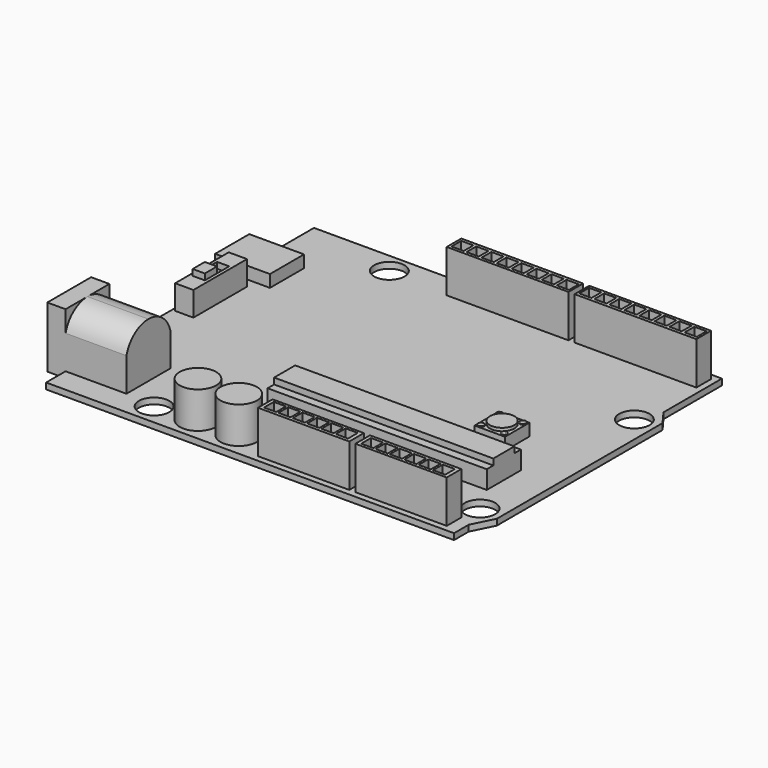
from build123d import *

# Parameters (mm, degrees)
F0_R      = 2.5
F0_R_2    = 3
F0_W      = 15
F0_H      = 3
F0_W_2    = 36
F0_H_2    = 7
F0_W_3    = 5
F0_H_3    = 5
F0_W_4    = 3
F0_H_4    = 11
F0_W_5    = 20
F1_DEPTH  = 1
F0_W_6    = 6
F2_DEPTH  = 3
F3_W      = 6.0919821262
F3_H      = 2.156003291
F3_W_2    = 4.6053659171
F3_H_2    = 0.7004359504
F4_DEPTH  = 5
F5_DEPTH  = 0.01
F6_R      = 0.1764885175
F7_DEPTH  = 1
F8_DEPTH  = 8
F9_W      = 2
F9_H      = 2
F10_DEPTH = 7
F11_DEPTH = 8
F12_W     = 2
F12_H     = 2
F13_DEPTH = 7
F14_DEPTH = 4
F15_W     = 36
F15_H     = 4.3235293124
F16_DEPTH = 1
F17_DEPTH = 7
F18_DEPTH = 5
F19_W     = 2
F19_H     = 5
F20_DEPTH = 1
F21_W     = 2
F21_H     = 2.5
F22_DEPTH = 2
F23_DEPTH = 3
F24_R     = 2
F25_DEPTH = 0.5
F26_R     = 0.5
F27_DEPTH = 0.12
F28_W     = 9
F28_H     = 10
F29_DEPTH = 3
F31_DEPTH = 10
F32_R     = 3.5
F33_DEPTH = 10
F34_R     = 0.5052638742
F35_DEPTH = 8


with BuildPart() as f1:
    # F0 (on Top) → F1 (new body)
    with BuildSketch(Plane.XY):
        with BuildLine():
            Line((29.8080042452, 39.4496775003), (-37.1919957548, 39.4496775003))
            Line((-37.1919957548, 39.4496775003), (-37.1919957548, 29.9080151767))
            Line((-37.1919957548, 29.9080151767), (-31.1919957548, 29.9080151767))
            Line((-31.1919957548, 29.9080151767), (-31.1919957548, 22.9080151767))
            Line((-31.1919957548, 22.9080151767), (-37.1919957548, 22.9080151767))
            Line((-37.1919957548, 22.9080151767), (-37.1919957548, -15.5503224997))
            Line((-37.1919957548, -15.5503224997), (29.8080042452, -15.5503224997))
            Line((29.8080042452, -15.5503224997), (29.8080042452, -12.5503224997))
            Line((29.8080042452, -12.5503224997), (29.8080042452, -9.9711786598))
            ThreePointArc((29.8080042452, -9.9711786598), (25.6350808795, -8.1134038046), (29.8080042452, -6.2556289494))
            Line((29.8080042452, -6.2556289494), (29.8080042452, 21.7037928794))
            ThreePointArc((29.8080042452, 21.7037928794), (25.6350808795, 23.5615677345), (29.8080042452, 25.4193425897))
            Line((29.8080042452, 25.4193425897), (29.8080042452, 27.4496775003))
            Line((29.8080042452, 27.4496775003), (29.8080042452, 39.4496775003))
        make_face()
        with Locations((-22.2124100368, -12.094632404)):
            Circle(F0_R, mode=Mode.SUBTRACT)
        with Locations((-15.4500696808, -11.547928676)):
            Circle(F0_R_2, mode=Mode.SUBTRACT)
        with Locations((-8.7503036484, -11.547928676)):
            Circle(F0_R_2, mode=Mode.SUBTRACT)
        with Locations((4.3080042452, -13.0503224997)):
            Rectangle(F0_W, F0_H, mode=Mode.SUBTRACT)
        with Locations((20.3080042452, -13.0503224997)):
            Rectangle(F0_W, F0_H, mode=Mode.SUBTRACT)
        with Locations((7.5855649958, -0.0503224997)):
            Rectangle(F0_W_2, F0_H_2, mode=Mode.SUBTRACT)
        with Locations((18.0855649958, 8.9496775003)):
            Rectangle(F0_W_3, F0_H_3, mode=Mode.SUBTRACT)
        with Locations((-35.1919957548, 15.817706503)):
            Rectangle(F0_W_4, F0_H_4, mode=Mode.SUBTRACT)
        with Locations((-22.1919957548, 36.1676290631)):
            Circle(F0_R, mode=Mode.SUBTRACT)
        with Locations((-2.1919957548, 36.9496775003)):
            Rectangle(F0_W_5, F0_H, mode=Mode.SUBTRACT)
        with Locations((18.8080042452, 36.9496775003)):
            Rectangle(F0_W_5, F0_H, mode=Mode.SUBTRACT)
        with BuildLine():
            Line((31.5855649958, 25.0330108336), (29.8080042452, 27.4496775003))
            Line((29.8080042452, 27.4496775003), (29.8080042452, 25.4193425897))
            ThreePointArc((29.8080042452, 25.4193425897), (30.4189710273, 24.5783498119), (30.6350808795, 23.5615677345))
            ThreePointArc((30.6350808795, 23.5615677345), (30.4189710273, 22.5447856572), (29.8080042452, 21.7037928794))
            Line((29.8080042452, 21.7037928794), (29.8080042452, -6.2556289494))
            ThreePointArc((29.8080042452, -6.2556289494), (30.4189710273, -7.0966217272), (30.6350808795, -8.1134038046))
            ThreePointArc((30.6350808795, -8.1134038046), (30.4189710273, -9.130185882), (29.8080042452, -9.9711786598))
            Line((29.8080042452, -9.9711786598), (29.8080042452, -12.5503224997))
            Line((29.8080042452, -12.5503224997), (31.5855649958, -8.9669891664))
            Line((31.5855649958, -8.9669891664), (31.5855649958, 25.0330108336))
        make_face()
    extrude(amount=F1_DEPTH)

    # F0 (on Top) → F2 (join)
    with BuildSketch(Plane.XY):
        with Locations((-34.1919957548, 26.4080151767)):
            Rectangle(F0_W_6, F0_H_2)
        with Locations((-38.6919957548, 26.4080151767)):
            Rectangle(F0_W_4, F0_H_2)
    extrude(amount=F2_DEPTH)

    # F3 (on face) → F4 (cut)
    with BuildSketch(Plane(origin=(-40.1919957548, 0, 0), x_dir=(0, -1, 0), z_dir=(-1, 0, 0))):
        with Locations((-26.4367051423, 1.5037092817)):
            Rectangle(F3_W, F3_H)
        with Locations((-26.4919223264, 1.1216333951)):
            Rectangle(F3_W_2, F3_H_2, mode=Mode.SUBTRACT)
    extrude(amount=-F4_DEPTH, mode=Mode.SUBTRACT)

    # F5 (add): a face of the model
    f5_faces = [f1.faces().sort_by_distance(p)[0] for p in [
        (-40.1919957548, 26.4919223264, 1.1216333951),
    ]]
    extrude(f5_faces, amount=F5_DEPTH)

    # F6 (on face) → F7 (cut)
    with BuildSketch(Plane(origin=(-40.2019957548, 0, 0), x_dir=(0, -1, 0), z_dir=(-1, 0, 0))):
        with Locations((-28.4428689629, 1.1273990385)):
            Circle(F6_R)
        with Locations((-27.773834765, 1.1273990385)):
            Circle(F6_R)
        with Locations((-27.0392056555, 1.1405174155)):
            Circle(F6_R)
        with Locations((-26.2389853597, 1.1273990385)):
            Circle(F6_R)
        with Locations((-25.4518836737, 1.1273990385)):
            Circle(F6_R)
        with Locations((-24.599192664, 1.1273990385)):
            Circle(F6_R)
    extrude(amount=-F7_DEPTH, mode=Mode.SUBTRACT)

    # F0 (on Top) → F8 (join)
    with BuildSketch(Plane.XY):
        with Locations((4.3080042452, -13.0503224997)):
            Rectangle(F0_W, F0_H)
        with Locations((20.3080042452, -13.0503224997)):
            Rectangle(F0_W, F0_H)
    extrude(amount=F8_DEPTH)

    # F9 (on face) → F10 (cut)
    with BuildSketch(Plane.XY.offset(8)):
        with Locations((-1.6276776972, -13.0106943408)):
            Rectangle(F9_W, F9_H)
        with Locations((0.7316023028, -13.0106943408)):
            Rectangle(F9_W, F9_H)
        with Locations((3.0908823028, -13.0106943408)):
            Rectangle(F9_W, F9_H)
        with Locations((5.4501623028, -13.0106943408)):
            Rectangle(F9_W, F9_H)
        with Locations((7.8094423028, -13.0106943408)):
            Rectangle(F9_W, F9_H)
        with Locations((10.1687223028, -13.0106943408)):
            Rectangle(F9_W, F9_H)
        with Locations((14.3679531808, -13.0613135853)):
            Rectangle(F9_W, F9_H)
        with Locations((16.7272331808, -13.0613135853)):
            Rectangle(F9_W, F9_H)
        with Locations((19.0865131808, -13.0613135853)):
            Rectangle(F9_W, F9_H)
        with Locations((21.4457931808, -13.0613135853)):
            Rectangle(F9_W, F9_H)
        with Locations((23.8050731808, -13.0613135853)):
            Rectangle(F9_W, F9_H)
        with Locations((26.1643531808, -13.0613135853)):
            Rectangle(F9_W, F9_H)
    extrude(amount=-F10_DEPTH, mode=Mode.SUBTRACT)

    # F0 (on Top) → F11 (join)
    with BuildSketch(Plane.XY):
        with Locations((-2.1919957548, 36.9496775003)):
            Rectangle(F0_W_5, F0_H)
        with Locations((18.8080042452, 36.9496775003)):
            Rectangle(F0_W_5, F0_H)
    extrude(amount=F11_DEPTH)

    # F12 (on face) → F13 (cut)
    with BuildSketch(Plane.XY.offset(8)):
        with Locations((-10.7926787348, 36.9306445411)):
            Rectangle(F12_W, F12_H)
        with Locations((-8.3211087348, 36.9306445411)):
            Rectangle(F12_W, F12_H)
        with Locations((-5.8495387348, 36.9306445411)):
            Rectangle(F12_W, F12_H)
        with Locations((-3.3779687348, 36.9306445411)):
            Rectangle(F12_W, F12_H)
        with Locations((6.5083112652, 36.9306445411)):
            Rectangle(F12_W, F12_H)
        with Locations((4.0367412652, 36.9306445411)):
            Rectangle(F12_W, F12_H)
        with Locations((1.5651712652, 36.9306445411)):
            Rectangle(F12_W, F12_H)
        with Locations((-0.9063987348, 36.9306445411)):
            Rectangle(F12_W, F12_H)
        with Locations((10.1558505086, 36.9821168771)):
            Rectangle(F12_W, F12_H)
        with Locations((12.6274205086, 36.9821168771)):
            Rectangle(F12_W, F12_H)
        with Locations((15.0989905086, 36.9821168771)):
            Rectangle(F12_W, F12_H)
        with Locations((17.5705605086, 36.9821168771)):
            Rectangle(F12_W, F12_H)
        with Locations((20.0421305086, 36.9821168771)):
            Rectangle(F12_W, F12_H)
        with Locations((22.5137005086, 36.9821168771)):
            Rectangle(F12_W, F12_H)
        with Locations((24.9852705086, 36.9821168771)):
            Rectangle(F12_W, F12_H)
        with Locations((27.4568405086, 36.9821168771)):
            Rectangle(F12_W, F12_H)
    extrude(amount=-F13_DEPTH, mode=Mode.SUBTRACT)

    # F0 (on Top) → F14 (join)
    with BuildSketch(Plane.XY):
        with Locations((7.5855649958, -0.0503224997)):
            Rectangle(F0_W_2, F0_H_2)
    extrude(amount=F14_DEPTH)

    # F15 (on face) → F16 (join)
    with BuildSketch(Plane.XY.offset(4)):
        with Locations((7.5855649958, -0.042969943)):
            Rectangle(F15_W, F15_H)
    extrude(amount=F16_DEPTH)

    # F28 (on face) → F29 (join)
    with BuildSketch(Plane(origin=(-37.1919957548, 0, 0), x_dir=(0, -1, 0), z_dir=(-1, 0, 0))):
        with Locations((7.0503224997, 4.9689507103)):
            Rectangle(F28_W, F28_H)
    extrude(amount=F29_DEPTH)

    # F30 (on face) → F31 (join)
    with BuildSketch(Plane.YZ.offset(-37.1919957548)):
        with BuildLine():
            ThreePointArc((-2.5503224997, 6.5089249854), (-4.2121110023, 9.0039471133), (-7.0503224997, 9.9689507103))
            ThreePointArc((-7.0503224997, 9.9689507103), (-9.8885339972, 9.0039471133), (-11.5503224997, 6.5089249854))
            Line((-11.5503224997, 6.5089249854), (-11.5503224997, 0))
            Line((-11.5503224997, 0), (-2.5503224997, 0))
            Line((-2.5503224997, 0), (-2.5503224997, 6.5089249854))
        make_face()
    extrude(amount=F31_DEPTH)

    # F32 (on face) → F33 (cut)
    with BuildSketch(Plane(origin=(-40.1919957548, 0, 0), x_dir=(0, -1, 0), z_dir=(-1, 0, 0))):
        with Locations((7.0503224997, 5.5)):
            Circle(F32_R)
    extrude(amount=-F33_DEPTH, mode=Mode.SUBTRACT)

    # F34 (on face) → F35 (join)
    with BuildSketch(Plane(origin=(-30.1919957548, 0, 0), x_dir=(0, -1, 0), z_dir=(-1, 0, 0))):
        with Locations((7.0503224997, 5.5)):
            Circle(F34_R)
    extrude(amount=F35_DEPTH)


with BuildPart() as f17:
    # F0 (on Top) → F17 (new body)
    with BuildSketch(Plane.XY):
        with Locations((-15.4500696808, -11.547928676)):
            Circle(F0_R_2)
    extrude(amount=F17_DEPTH)


with BuildPart() as f17b:
    # F0 (on Top) → F17, piece 2 (new body)
    with BuildSketch(Plane.XY):
        with Locations((-8.7503036484, -11.547928676)):
            Circle(F0_R_2)
    extrude(amount=F17_DEPTH)


with BuildPart() as f18:
    # F0 (on Top) → F18 (new body)
    with BuildSketch(Plane.XY):
        with Locations((-35.1919957548, 15.817706503)):
            Rectangle(F0_W_4, F0_H_4)
    extrude(amount=F18_DEPTH)

    # F19 (on face) → F20 (cut)
    with BuildSketch(Plane.XY.offset(5)):
        with Locations((-35.2119957548, 15.817706503)):
            Rectangle(F19_W, F19_H)
    extrude(amount=-F20_DEPTH, mode=Mode.SUBTRACT)

    # F21 (on face) → F22 (join)
    with BuildSketch(Plane.XY.offset(4)):
        with Locations((-35.2119957548, 14.567706503)):
            Rectangle(F21_W, F21_H)
    extrude(amount=F22_DEPTH)


with BuildPart() as f23:
    # F0 (on Top) → F23 (new body)
    with BuildSketch(Plane.XY):
        with Locations((18.0855649958, 8.9496775003)):
            Rectangle(F0_W_3, F0_H_3)
    extrude(amount=F23_DEPTH)

    # F24 (on face) → F25 (join)
    with BuildSketch(Plane.XY.offset(3)):
        with Locations((18.0920784259, 8.9695549274)):
            Circle(F24_R)
    extrude(amount=F25_DEPTH)

    # F26 (on face) → F27 (join)
    with BuildSketch(Plane.XY.offset(3)):
        with Locations((16.1707662046, 10.8680827543)):
            Circle(F26_R)
        with Locations((16.1867495626, 7.0364638232)):
            Circle(F26_R)
        with Locations((19.9879501015, 7.0236334577)):
            Circle(F26_R)
        with Locations((19.9743174016, 10.8680827543)):
            Circle(F26_R)
    extrude(amount=F27_DEPTH)


solid = Compound([f1.part, f17.part, f17b.part, f18.part, f23.part])
